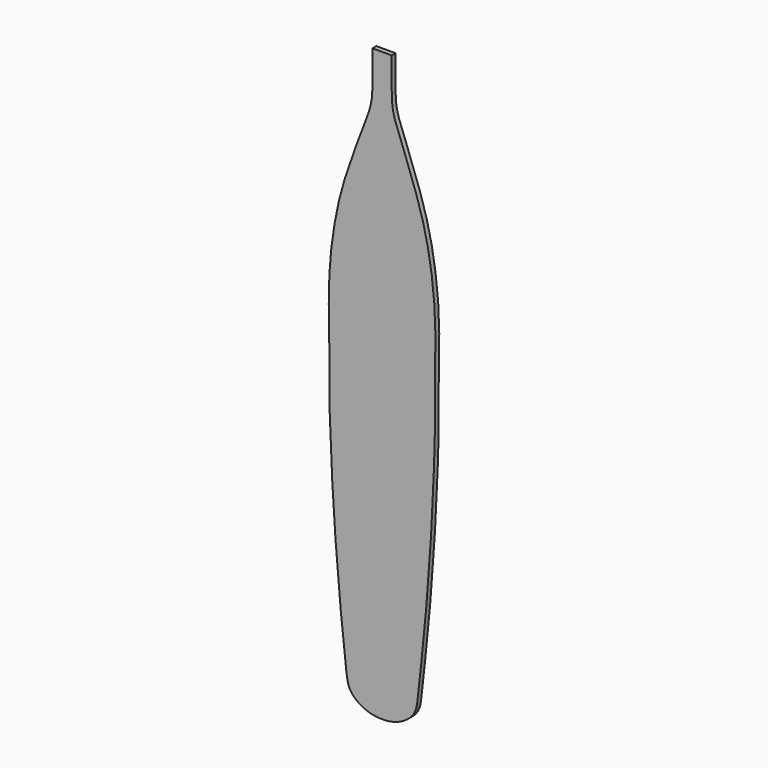
from build123d import *

# Parameters (mm, degrees)
F1_DEPTH = 6.35


with BuildPart() as f1:
    # F0 (on Front) → F1 (new body)
    with BuildSketch(Plane.XZ):
        with BuildLine():
            add(Edge.make_bspline(
                [(0, 0), (-17.2255374491, 0), (-36.1001101129, 10.7107119672), (-46.0951264741, 25.2722475858), (-48.3550647541, 52.3554430993), (-54.3286652503, 102.6056252862), (-58.8103166102, 152.1085584706), (-62.8465374116, 203.2596058957), (-66.0350775924, 253.9695020086), (-68.2971330968, 304.7975276165), (-70.3493683312, 355.5929150577), (-69.4048506798, 406.3977629256), (-71.131466782, 457.2222363997), (-69.9304749133, 507.9975164814), (-63.4309245336, 559.38607818), (-52.3270587632, 608.6736930582), (-33.5040266142, 659.9717320518), (-24.2914019677, 684.9729885798), (-13.5100618624, 711.4358465079), (-12.4344068372, 737.0709942094), (-12.6046284311, 763.3143050149), (-12.7, 778.0178785324)],
                knots=[0, 0, 0, 0, 0.0500787624, 0.0820094009, 0.1232491617, 0.1813929601, 0.2394911155, 0.2975505658, 0.3555782906, 0.4135813039, 0.4715666468, 0.5295378418, 0.5875125748, 0.6454979177, 0.7036942478, 0.762445663, 0.8220583415, 0.8644209775, 0.9065735067, 0.9476551063, 1, 1, 1, 1], degree=3))
            add(Edge.make_bspline(
                [(0, 0), (17.2255374491, 0), (36.1001101129, 10.7107119672), (46.0951264741, 25.2722475858), (48.3550647541, 52.3554430993), (54.3286652503, 102.6056252862), (58.8103166102, 152.1085584706), (62.8465374116, 203.2596058957), (66.0350775924, 253.9695020086), (68.2971330968, 304.7975276165), (70.3493683312, 355.5929150577), (69.4048506798, 406.3977629256), (71.131466782, 457.2222363997), (69.9304749133, 507.9975164814), (63.4309245336, 559.38607818), (52.3270587632, 608.6736930582), (33.5040266142, 659.9717320518), (24.2914019677, 684.9729885798), (13.5100618624, 711.4358465079), (12.4344068372, 737.0709942094), (12.6046284311, 763.3143050149), (12.7, 778.0178785324)],
                knots=[0, 0, 0, 0, 0.0500787624, 0.0820094009, 0.1232491617, 0.1813929601, 0.2394911155, 0.2975505658, 0.3555782906, 0.4135813039, 0.4715666468, 0.5295378418, 0.5875125748, 0.6454979177, 0.7036942478, 0.762445663, 0.8220583415, 0.8644209775, 0.9065735067, 0.9476551063, 1, 1, 1, 1], degree=3))
            Line((12.7, 778.0178785324), (-12.7, 778.0178785324))
        make_face()
    extrude(amount=F1_DEPTH)


solid = f1.part
